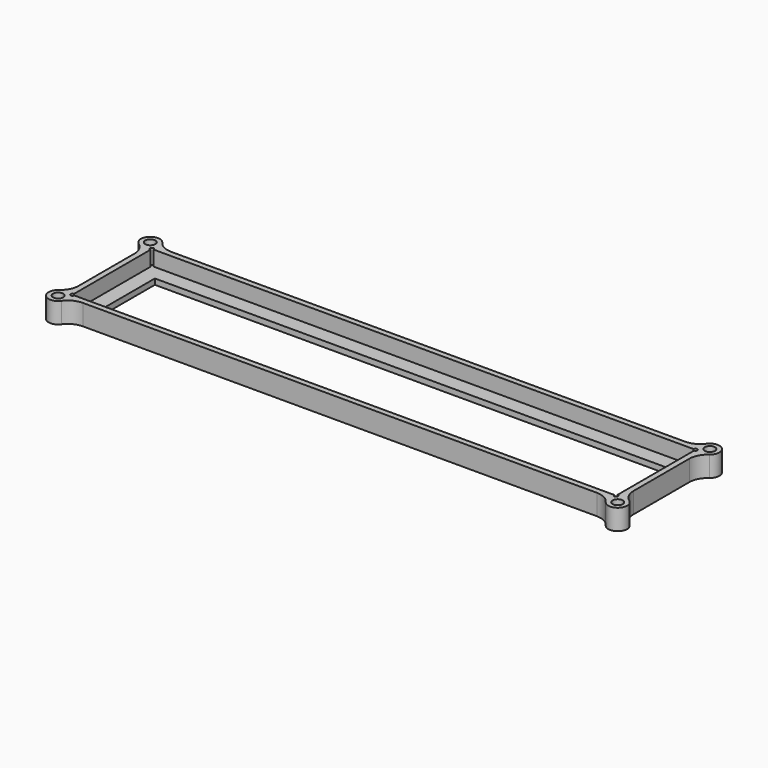
from build123d import *

# Parameters (mm, degrees)
F0_W      = 234.762548
F0_H      = 46.762416
F0_W_2    = 230.000048
F0_H_2    = 41.999916
F1_DEPTH  = 6.35
F2_W      = 234.762548
F2_H      = 46.762416
F2_W_2    = 217.300048
F2_H_2    = 29.299916
F3_DEPTH  = 2.38125
F4_R      = 3.96875
F5_DEPTH  = 8.73125
F6_R      = 7.9375
F7_R      = 2.15265
F8_DEPTH  = 8.73125
F9_R      = 0.79375
F10_DEPTH = 6.35


with BuildPart() as f1:
    # F0 (on Top) → F1 (new body)
    with BuildSketch(Plane.XY):
        Rectangle(F0_W, F0_H)
        Rectangle(F0_W_2, F0_H_2, mode=Mode.SUBTRACT)
    extrude(amount=F1_DEPTH)

    # F2 (on face) → F3 (join)
    with BuildSketch(Plane(origin=(0, 0, 0), x_dir=(1, 0, 0), z_dir=(0, 0, -1))):
        Rectangle(F2_W, F2_H)
        Rectangle(F2_W_2, F2_H_2, mode=Mode.SUBTRACT)
    extrude(amount=F3_DEPTH)

    # F4 (on face) → F5 (join, through all)
    with BuildSketch(Plane.XY.offset(6.35)):
        with Locations((118.36762, 24.367554)):
            Circle(F4_R)
        with Locations((118.36762, -24.367554)):
            Circle(F4_R)
        with Locations((-118.36762, -24.367554)):
            Circle(F4_R)
        with Locations((-118.36762, 24.367554)):
            Circle(F4_R)
    extrude(amount=-F5_DEPTH)

    # F6
    f6_edges = [f1.edges().sort_by_distance(p)[0] for p in [
        (114.523391, 23.381208, 1.984375),
        (117.381274, 20.523325, 1.984375),
        (117.381274, -20.523325, 1.984375),
        (114.523391, -23.381208, 1.984375),
        (-117.381274, -20.523325, 1.984375),
        (-114.523391, -23.381208, 1.984375),
        (-114.523391, 23.381208, 1.984375),
        (-117.381274, 20.523325, 1.984375),
    ]]
    fillet(f6_edges, radius=F6_R)

    # F7 (on face) → F8 (cut, through all)
    with BuildSketch(Plane.XY.offset(6.35)):
        with Locations((118.36762, 24.367554)):
            Circle(F7_R)
        with Locations((118.36762, -24.367554)):
            Circle(F7_R)
        with Locations((-118.36762, 24.367554)):
            Circle(F7_R)
        with Locations((-118.36762, -24.367554)):
            Circle(F7_R)
    extrude(amount=-F8_DEPTH, mode=Mode.SUBTRACT)

    # F9 (on face) → F10 (cut, through all)
    with BuildSketch(Plane.XY.offset(6.35)):
        with Locations((-115.000024, 20.999958)):
            Circle(F9_R)
        with Locations((-115.000024, -20.999958)):
            Circle(F9_R)
        with Locations((115.000024, 20.999958)):
            Circle(F9_R)
        with Locations((115.000024, -20.999958)):
            Circle(F9_R)
    extrude(amount=-F10_DEPTH, mode=Mode.SUBTRACT)


solid = f1.part
